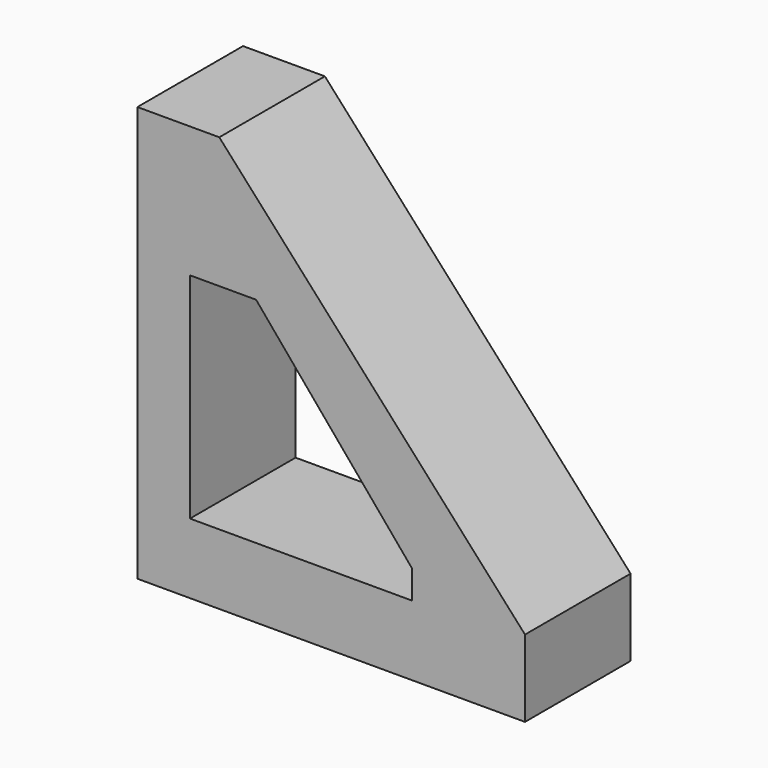
from build123d import *

# Parameters (mm, degrees)
F1_DEPTH = 25.4
F3_DEPTH = 25.401


with BuildPart() as f1:
    # F0 (on Front) → F1 (new body)
    with BuildSketch(Plane.XZ):
        Polygon((-28.907506, 44.009075), (-44.663455, 44.009075), (-44.663455, -35.910148), (29.924411, -35.910148), (29.924411, -21.110609), align=None)
    extrude(amount=F1_DEPTH)

    # F2 (on face) → F3 (cut, through all)
    with BuildSketch(Plane.XZ.offset(25.4)):
        Polygon((-21.82091, 18.790228), (-34.549773, 18.790228), (-34.549773, -22.427047), (8.182841, -22.427047), (8.182841, -16.971819), align=None)
    extrude(amount=-F3_DEPTH, mode=Mode.SUBTRACT)


solid = f1.part
